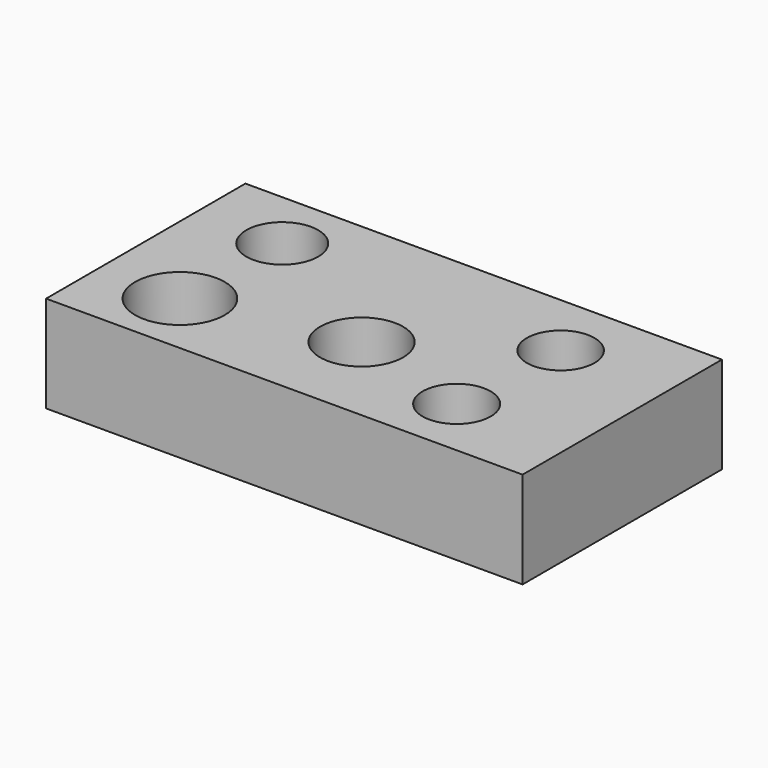
from build123d import *

# Parameters (mm, degrees)
F0_W          = 125.194638
F0_H          = 65.465718
F1_DEPTH      = 25.4
F2_R          = 8.887572
F2_R_2        = 9.445227
F2_R_3        = 8.938329
F2_R_4        = 11.778548
F3_DEPTH      = 25.4
F4_R          = 10.913086
F5_DEPTH      = 25.4
F5_DEPTH_BACK = 25.4


with BuildPart() as f1:
    # F0 (on Top) → F1 (new body)
    with BuildSketch(Plane.XY):
        Rectangle(F0_W, F0_H)
    extrude(amount=F1_DEPTH)

    # F2 (on face) → F3 (cut)
    with BuildSketch(Plane.XY.offset(25.4)):
        with Locations((34.231201, 15.227929)):
            Circle(F2_R)
        with Locations((-40.088922, 16.693249)):
            Circle(F2_R_2)
        with Locations((32.400653, -16.642913)):
            Circle(F2_R_3)
        with Locations((-41.187249, -15.543923)):
            Circle(F2_R_4)
    extrude(amount=-F3_DEPTH, mode=Mode.SUBTRACT)

    # F4 (on face) → F5 (cut, two sides)
    with BuildSketch(Plane.XY.offset(25.4)) as f5_sk:
        with Locations((0, -7.362174)):
            Circle(F4_R)
    extrude(amount=-F5_DEPTH, mode=Mode.SUBTRACT)
    extrude(f5_sk.sketch, amount=-F5_DEPTH_BACK, mode=Mode.SUBTRACT)


solid = f1.part
